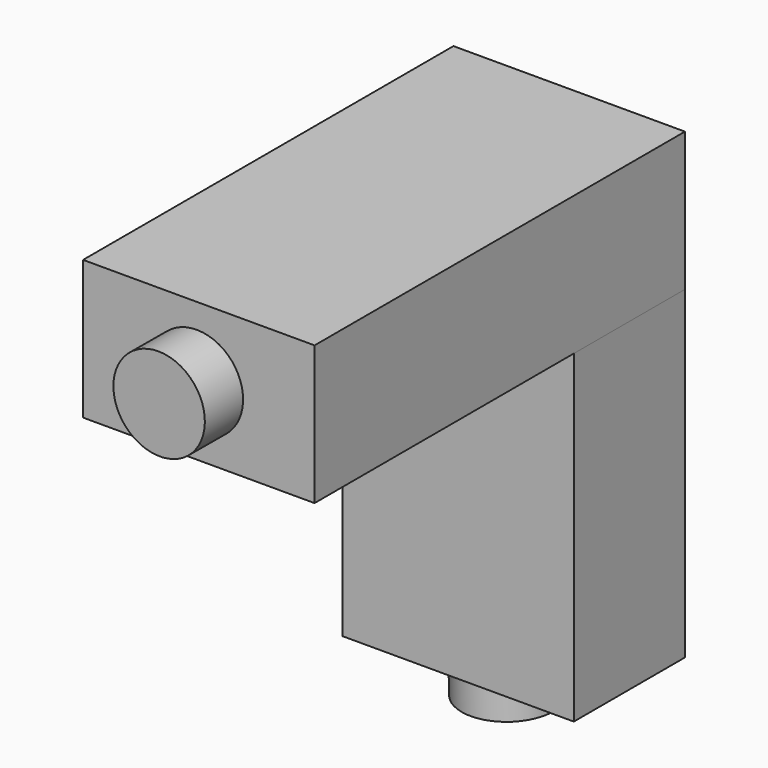
from build123d import *

# Parameters (mm, degrees)
BOX_W                       = 5
BOX_H                       = 3
BOX_DEPTH                   = 10
BOX001_W                    = 10
BOX001_H                    = 5
BOX001_DEPTH                = 3
BOX001_PLACEMENT_ANGLE      = 90
CYLINDER_R                  = 1
CYLINDER_DEPTH              = 5
CYLINDER_ROLL_ANGLE         = -0.45753
CYLINDER_PITCH_ANGLE        = 0.935461
CYLINDER_PLACEMENT_ANGLE    = -145.553363
CYLINDER001_R               = 1
CYLINDER001_DEPTH           = 5
CYLINDER001_ROLL_ANGLE      = 90.44689
CYLINDER001_PITCH_ANGLE     = 2.063319
CYLINDER001_PLACEMENT_ANGLE = -0.844223


with BuildPart() as vertical_cube:
    # Box → Box (new body)
    with BuildSketch(Plane.XY):
        with Locations((2.5, 1.5)):
            Rectangle(BOX_W, BOX_H)
    extrude(amount=BOX_DEPTH)


with BuildPart() as horizontal_cube:
    # Box001 → Box001 (new body)
    with BuildSketch(Plane.XY):
        with Locations((5, 2.5)):
            Rectangle(BOX001_W, BOX001_H)
    extrude(amount=BOX001_DEPTH)


with BuildPart() as horizontal_cube_1:
    # Box001 placement: moved
    add(horizontal_cube.part.moved(Location((5, -7, 7))).rotate(Axis((5, -7, 7), (0, 0, 1)), BOX001_PLACEMENT_ANGLE))


with BuildPart() as obj1:
    # Cylinder → Cylinder (new body)
    with BuildSketch(Plane.XY):
        Circle(CYLINDER_R)
    extrude(amount=CYLINDER_DEPTH)


with BuildPart() as obj1_1:
    # Cylinder roll: moved
    add(obj1.part.rotate(Axis((0, 0, 0), (1, 0, 0)), CYLINDER_ROLL_ANGLE))


with BuildPart() as obj1_2:
    # Cylinder pitch: moved
    add(obj1_1.part.rotate(Axis((0, 0, 0), (0, 1, 0)), CYLINDER_PITCH_ANGLE))


with BuildPart() as obj1_3:
    # Cylinder placement: moved
    add(obj1_2.part.moved(Location((2.4, 1.481379, -0.926))).rotate(Axis((2.4, 1.481379, -0.926), (0, 0, 1)), CYLINDER_PLACEMENT_ANGLE))


with BuildPart() as obj2:
    # Cylinder001 → Cylinder001 (new body)
    with BuildSketch(Plane.XY):
        Circle(CYLINDER001_R)
    extrude(amount=CYLINDER001_DEPTH)


with BuildPart() as obj2_1:
    # Cylinder001 roll: moved
    add(obj2.part.rotate(Axis((0, 0, 0), (1, 0, 0)), CYLINDER001_ROLL_ANGLE))


with BuildPart() as obj2_2:
    # Cylinder001 pitch: moved
    add(obj2_1.part.rotate(Axis((0, 0, 0), (0, 1, 0)), CYLINDER001_PITCH_ANGLE))


with BuildPart() as obj2_3:
    # Cylinder001 placement: moved
    add(obj2_2.part.moved(Location((2.516161, -2.998899, 8.499999))).rotate(Axis((2.516161, -2.998899, 8.499999), (0, 0, 1)), CYLINDER001_PLACEMENT_ANGLE))


solid = Compound([vertical_cube.part, horizontal_cube_1.part, obj1_3.part, obj2_3.part])
